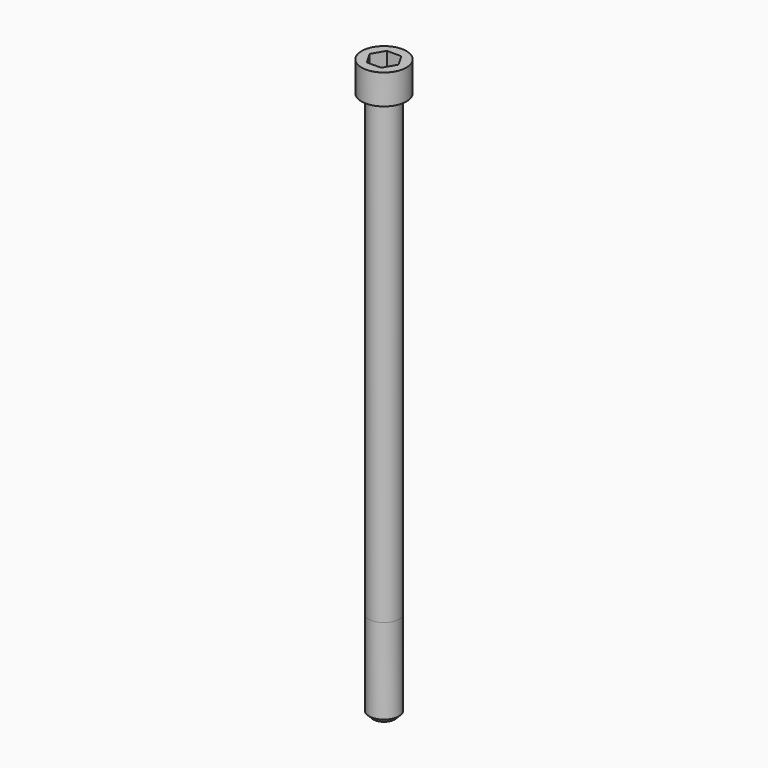
from build123d import *

# Parameters (mm, degrees)
POCKET_DEPTH = 10.07


with BuildPart() as part:
    # Sketch → Revolve (revolve)
    with BuildSketch(Plane.YZ):
        with BuildLine():
            Line((5.999, 0), (9, 0))
            Line((9, 0), (9, 11.97229))
            ThreePointArc((9, 11.97229), (8.991884, 11.991884), (8.97229, 12))
            Line((8.97229, 12), (0, 12))
            Line((0, -220), (0, 12))
            Line((4.25, -220), (0, -220))
            Line((6, -218.25), (4.25, -220))
            Line((6, -184), (6, -218.25))
            Line((5.999, 0), (6, -184))
        make_face()
    revolve(axis=Axis((0, 0, 0), (0, 0, 1)))

    # Sketch001 → Pocket (cut)
    with BuildSketch(Plane.XY.offset(12)):
        Polygon((5.813917, 0), (2.906959, 5.035), (-2.906959, 5.035), (-5.813917, 0), (-2.906959, -5.035), (2.906959, -5.035), align=None)
    extrude(amount=-POCKET_DEPTH, mode=Mode.SUBTRACT)


solid = part.part
